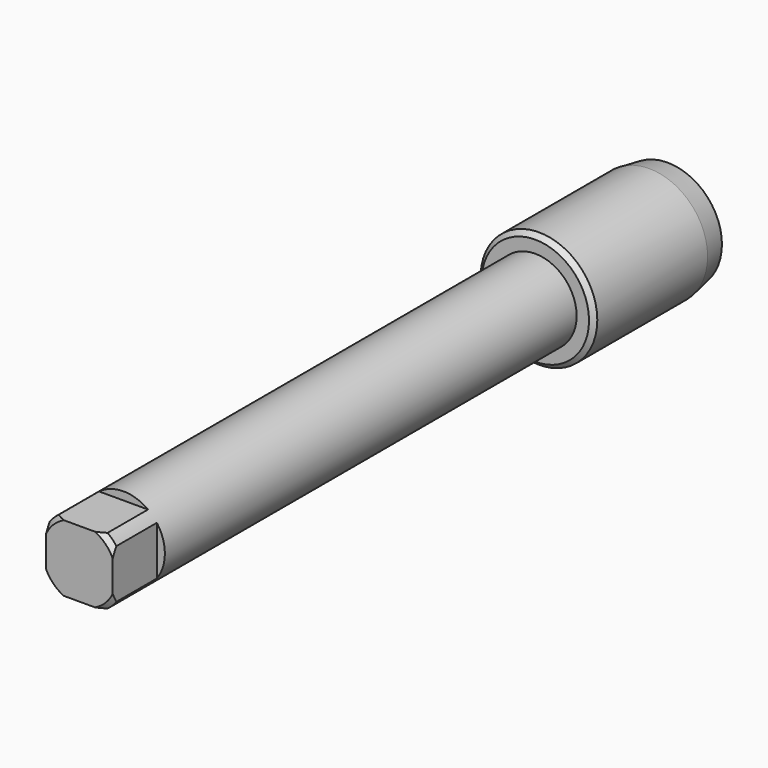
from build123d import *

# Parameters (mm, degrees)
F0_R     = 9
F1_DEPTH = 160
F2_R     = 12.7
F3_DEPTH = 36
F4_SIZE2 = 0.881635
F4_SIZE  = 5
F5_SIZE  = 1
F6_W     = 18.961538
F6_H     = 20.995473
F6_W_2   = 14.5
F6_H_2   = 14.5
F7_DEPTH = 12


with BuildPart() as f1:
    # F0 (on Front) → F1 (new body)
    with BuildSketch(Plane.XZ):
        Circle(F0_R)
    extrude(amount=F1_DEPTH)

    # F2 (on Front) → F3 (join)
    with BuildSketch(Plane.XZ):
        Circle(F2_R)
    extrude(amount=F3_DEPTH)

    # F4
    f4_edges = [f1.edges().sort_by_distance(p)[0] for p in [
        (-12.7, 0, 0),
    ]]
    chamfer(f4_edges, length=F4_SIZE, length2=F4_SIZE2)

    # F5
    f5_edges = [f1.edges().sort_by_distance(p)[0] for p in [
        (-12.7, -36, 0),
        (-9, -160, 0),
    ]]
    chamfer(f5_edges, length=F5_SIZE)

    # F6 (on face) → F7 (cut)
    with BuildSketch(Plane.XZ.offset(160)):
        with Locations((0, -0.656108)):
            Rectangle(F6_W, F6_H)
        Rectangle(F6_W_2, F6_H_2, mode=Mode.SUBTRACT)
    extrude(amount=-F7_DEPTH, mode=Mode.SUBTRACT)


solid = f1.part
